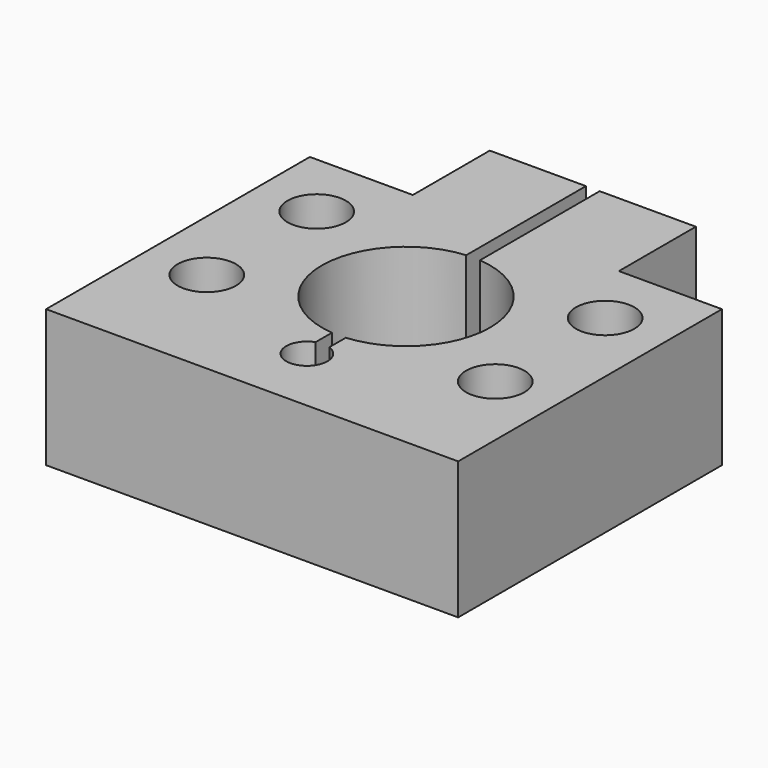
from build123d import *

# Parameters (mm, degrees)
F0_R     = 4.25
F1_DEPTH = 20
F2_R     = 3
F3_DEPTH = 30


with BuildPart() as f1:
    # F0 (on Top) → F1 (new body)
    with BuildSketch(Plane.XY):
        with BuildLine():
            Line((-1, 34), (-15, 34))
            Line((-15, 34), (-15, 20))
            Line((-15, 20), (-30, 20))
            Line((-30, 20), (-30, -28))
            Line((-30, -28), (30, -28))
            Line((30, -28), (30, 20))
            Line((30, 20), (15, 20))
            Line((15, 20), (15, 34))
            Line((15, 34), (1, 34))
            Line((1, 34), (1, 12.209115))
            ThreePointArc((1, 12.209115), (12.25, 0), (1, -12.209115))
            Line((1, -12.209115), (1, -15.209115))
            ThreePointArc((1, -15.209115), (0, -21.037543), (-1, -15.209115))
            Line((-1, -15.209115), (-1, -12.209115))
            ThreePointArc((-1, -12.209115), (-12.25, 0), (-1, 12.209115))
            Line((-1, 12.209115), (-1, 34))
        make_face()
        with Locations((-21, -10)):
            Circle(F0_R, mode=Mode.SUBTRACT)
        with Locations((21, -10)):
            Circle(F0_R, mode=Mode.SUBTRACT)
        with Locations((-21, 10)):
            Circle(F0_R, mode=Mode.SUBTRACT)
        with Locations((21, 10)):
            Circle(F0_R, mode=Mode.SUBTRACT)
    extrude(amount=F1_DEPTH)

    # F2 (on face) → F3 (cut)
    with BuildSketch(Plane.YZ.offset(15)):
        with Locations((27, 10)):
            Circle(F2_R)
    extrude(amount=-F3_DEPTH, mode=Mode.SUBTRACT)


solid = f1.part
